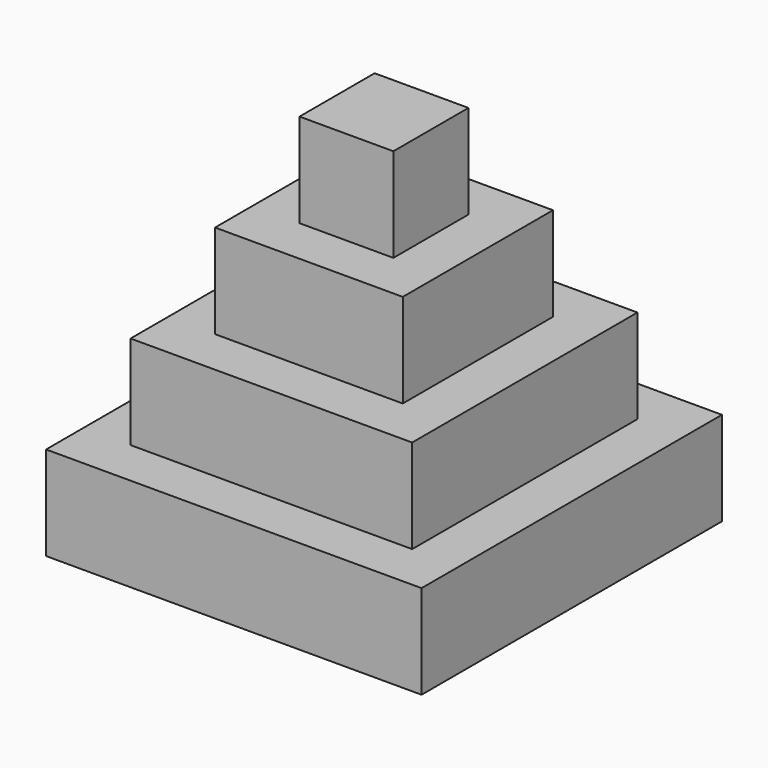
from build123d import *

# Parameters (mm, degrees)
F1_W     = 25
F1_H     = 25
F1_W_2   = 18.75
F1_H_2   = 18.75
F2_DEPTH = 6.25
F1_W_3   = 12.5
F1_H_3   = 12.5
F3_DEPTH = 12.5
F1_W_4   = 6.25
F1_H_4   = 6.25
F4_DEPTH = 18.75
F5_DEPTH = 25


with BuildPart() as f2:
    # F1 (on Top) → F2 (new body)
    with BuildSketch(Plane.XY):
        with Locations((12.5, 12.5)):
            Rectangle(F1_W, F1_H)
        with Locations((12.5, 12.5)):
            Rectangle(F1_W_2, F1_H_2, mode=Mode.SUBTRACT)
    extrude(amount=F2_DEPTH)

    # F1 (on Top) → F3 (join)
    with BuildSketch(Plane.XY):
        with Locations((12.5, 12.5)):
            Rectangle(F1_W_2, F1_H_2)
        with Locations((12.5, 12.5)):
            Rectangle(F1_W_3, F1_H_3, mode=Mode.SUBTRACT)
    extrude(amount=F3_DEPTH)

    # F1 (on Top) → F4 (join)
    with BuildSketch(Plane.XY):
        with Locations((12.5, 12.5)):
            Rectangle(F1_W_3, F1_H_3)
        with Locations((12.5, 12.5)):
            Rectangle(F1_W_4, F1_H_4, mode=Mode.SUBTRACT)
    extrude(amount=F4_DEPTH)

    # F1 (on Top) → F5 (join)
    with BuildSketch(Plane.XY):
        with Locations((12.5, 12.5)):
            Rectangle(F1_W_4, F1_H_4)
    extrude(amount=F5_DEPTH)


solid = f2.part
